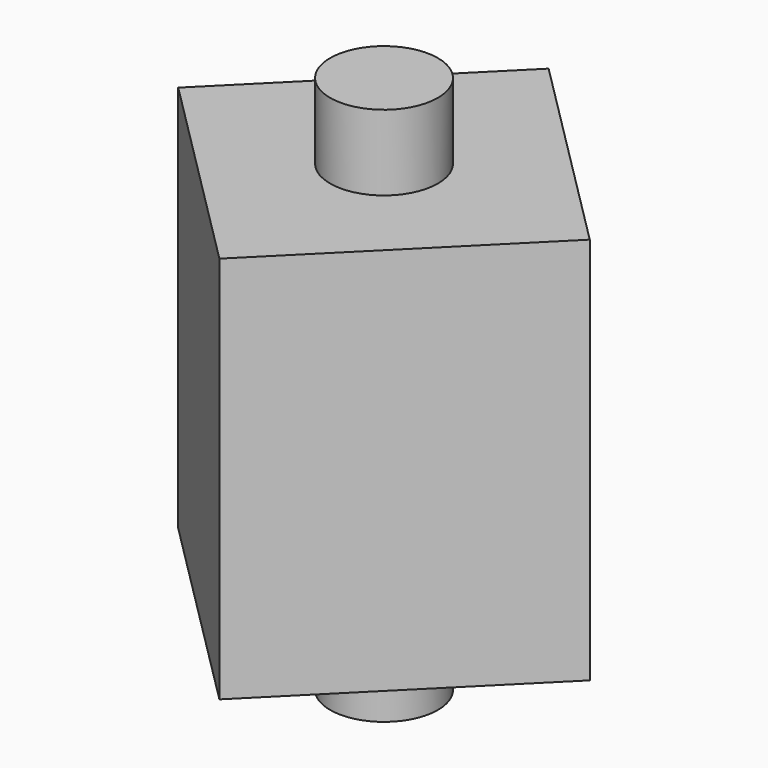
from build123d import *

# Parameters (mm, degrees)
BOX_W               = 27
BOX_H               = 27
BOX_DEPTH           = 36
BOX_PLACEMENT_ANGLE = 45
CYLINDER_R          = 5
CYLINDER_DEPTH      = 50


with BuildPart() as cube:
    # Box → Box (new body)
    with BuildSketch(Plane.XY):
        with Locations((13.5, 13.5)):
            Rectangle(BOX_W, BOX_H)
    extrude(amount=BOX_DEPTH)


with BuildPart() as cube_1:
    # Box placement: moved
    add(cube.part.moved(Location((0, -19.091883, 7))).rotate(Axis((0, -19.091883, 7), (0, 0, 1)), BOX_PLACEMENT_ANGLE))


with BuildPart() as fusion:
    # Cylinder → Cylinder (new body)
    with BuildSketch(Plane.XY):
        Circle(CYLINDER_R)
    extrude(amount=CYLINDER_DEPTH)

    # Fusion: union Cube
    add(cube_1.part)


solid = fusion.part
